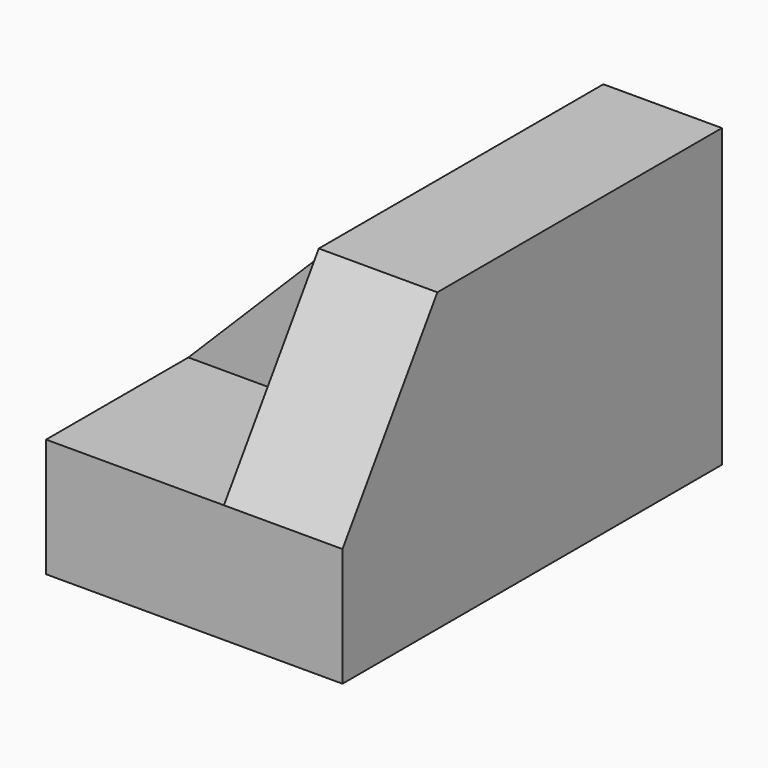
from build123d import *

# Parameters (mm, degrees)
F1_DEPTH = 50.8
F3_DEPTH = 12.701
F4_W     = 19.05
F4_H     = 12.7
F5_DEPTH = 19.05
F7_DEPTH = 25.4


with BuildPart() as f1:
    # F0 (on Front) → F1 (new body)
    with BuildSketch(Plane.XZ):
        Polygon((-34.153096, 12.7), (-34.153096, 0), (-2.403096, 0), (-2.403096, 31.75), (-15.103096, 31.75), (-15.103096, 12.7), align=None)
    extrude(amount=F1_DEPTH)

    # F2 (on face) → F3 (cut, through all)
    with BuildSketch(Plane(origin=(-15.103096, 0, 0), x_dir=(0, -1, 0), z_dir=(-1, 0, 0))):
        Polygon((50.8, 31.75), (38.1, 31.75), (50.8, 12.7), align=None)
    extrude(amount=-F3_DEPTH, mode=Mode.SUBTRACT)

    # F4 (on face) → F5 (join)
    with BuildSketch(Plane.XY.offset(12.7)):
        with Locations((-24.628096, -25.4)):
            Rectangle(F4_W, F4_H)
    extrude(amount=F5_DEPTH)

    # F6 (on face) → F7 (cut)
    with BuildSketch(Plane.XZ.offset(31.75)):
        Polygon((-34.153096, 12.7), (-15.103096, 31.75), (-34.153096, 31.75), align=None)
    extrude(amount=-F7_DEPTH, mode=Mode.SUBTRACT)


solid = f1.part
